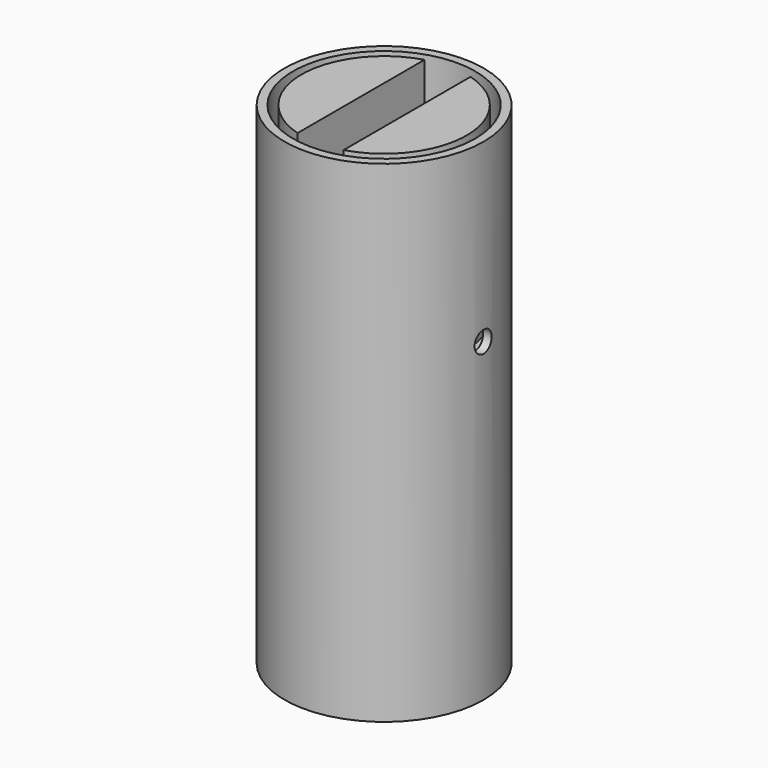
from build123d import *

# Parameters (mm, degrees)
CYLINDER_R           = 1.3
CYLINDER_DEPTH       = 50
CYLINDER_PITCH_ANGLE = -90
SKETCH_R             = 12.158698
PAD_DEPTH            = 60
SKETCH001_R          = 11.129855
POCKET_DEPTH         = 59
PAD001_DEPTH         = 60
SKETCH003_W          = 5.624389
SKETCH003_H          = 8.223541
POCKET001_DEPTH      = 0.5
PAD002_DEPTH         = 36


with BuildPart() as cylinder:
    # Cylinder → Cylinder (new body)
    with BuildSketch(Plane.XY):
        Circle(CYLINDER_R)
    extrude(amount=CYLINDER_DEPTH)


with BuildPart() as cylinder_1:
    # Cylinder pitch: moved
    add(cylinder.part.rotate(Axis((0, 0, 0), (0, 1, 0)), CYLINDER_PITCH_ANGLE))


with BuildPart() as cylinder_2:
    # Cylinder placement: moved
    add(cylinder_1.part.moved(Location((25, 0, 38.5))))


with BuildPart() as cut:
    # Sketch → Pad (new body)
    with BuildSketch(Plane.XY):
        Circle(SKETCH_R)
    extrude(amount=PAD_DEPTH)

    # Sketch001 (on Face3 of Pad) → Pocket (cut)
    with BuildSketch(Plane.XY.offset(60)):
        Circle(SKETCH001_R)
    extrude(amount=-POCKET_DEPTH, mode=Mode.SUBTRACT)

    # Sketch002 → Pad001 (join)
    with BuildSketch(Plane.XY):
        with BuildLine():
            Line((2.805862, 9.68487), (2.805862, -9.68487))
            ThreePointArc((2.805862, -9.68487), (10.083133, 0), (2.805862, 9.68487))
        make_face()
        with BuildLine():
            Line((-2.818532, -9.684849), (-2.818532, 9.684849))
            ThreePointArc((-2.818532, 9.684849), (-10.086646, 0), (-2.818532, -9.684849))
        make_face()
    extrude(amount=PAD001_DEPTH)

    # Sketch003 (on Face7 of Pad001) → Pocket001 (cut)
    with BuildSketch(Plane.XY.offset(1)):
        with Locations((-0.021016, 0.484692)):
            Rectangle(SKETCH003_W, SKETCH003_H)
    extrude(amount=-POCKET001_DEPTH, mode=Mode.SUBTRACT)

    # Sketch004 (on Face7 of Pocket001) → Pad002 (join)
    with BuildSketch(Plane.XY.offset(1)):
        with BuildLine():
            ThreePointArc((-3.168719, 10.816817), (-11.271375, -0.02054), (-3.129274, -10.828294))
            Line((-2.766472, -9.520992), (-3.129274, -10.828294))
            ThreePointArc((-2.764641, 9.521524), (-9.91477, 0.000953), (-2.766472, -9.520992))
            Line((-3.168719, 10.816817), (-2.764641, 9.521524))
        make_face()
        with BuildLine():
            ThreePointArc((10.639772, -3.318351), (11.124371, 0.350816), (10.384091, 3.977054))
            Line((9.22397, 3.5596), (10.384091, 3.977054))
            ThreePointArc((9.444413, -2.924966), (9.881272, 0.335915), (9.22397, 3.5596))
            Line((9.444413, -2.924966), (10.639772, -3.318351))
        make_face()
    extrude(amount=PAD002_DEPTH)

    # Cut: cut Cylinder
    add(cylinder_2.part, mode=Mode.SUBTRACT)


solid = cut.part
